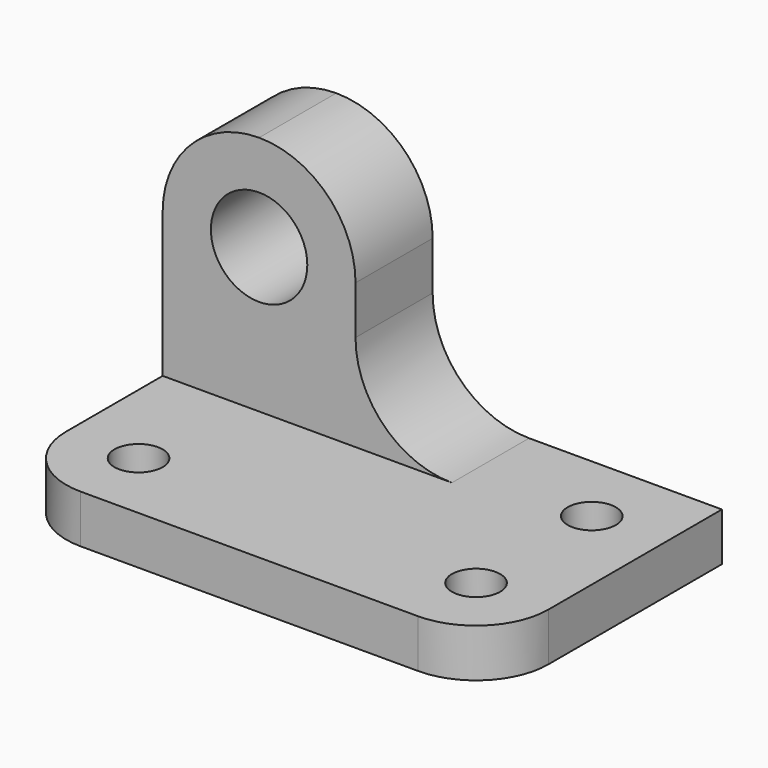
from build123d import *

# Parameters (mm, degrees)
F1_DEPTH  = 38.1
F2_W      = 38.1
F2_H      = 31.75
F3_DEPTH  = 25.4
F4_R      = 3.175
F5_DEPTH  = 25.4
F6_R      = 3.175
F7_DEPTH  = 25.4
F8_R      = 6.35
F9_DEPTH  = 25.4
F11_DEPTH = 25.4


with BuildPart() as f1:
    # F0 (on Front) → F1 (new body)
    with BuildSketch(Plane.XZ):
        Polygon((-35.522558, 52.933332), (-73.622558, 52.933332), (-73.622558, 14.833332), (-10.122558, 14.833332), (-10.122558, 21.183332), (-35.522558, 21.183332), align=None)
    extrude(amount=F1_DEPTH)

    # F2 (on face) → F3 (cut)
    with BuildSketch(Plane.XZ.offset(38.1)):
        with Locations((-54.572558, 37.058332)):
            Rectangle(F2_W, F2_H)
    extrude(amount=-F3_DEPTH, mode=Mode.SUBTRACT)

    # F4 (on face) → F5 (cut)
    with BuildSketch(Plane.XY.offset(21.183332)):
        with Locations((-19.647558, -28.575)):
            Circle(F4_R)
        with Locations((-64.097558, -28.575)):
            Circle(F4_R)
        with BuildLine():
            Line((-73.622558, -38.1), (-64.097558, -38.1))
            ThreePointArc((-64.097558, -38.1), (-70.83275, -35.310192), (-73.622558, -28.575))
            Line((-73.622558, -28.575), (-73.622558, -38.1))
        make_face()
        with BuildLine():
            ThreePointArc((-10.122558, -28.575), (-12.912366, -35.310192), (-19.647558, -38.1))
            Line((-19.647558, -38.1), (-10.122558, -38.1))
            Line((-10.122558, -38.1), (-10.122558, -28.575))
        make_face()
    extrude(amount=-F5_DEPTH, mode=Mode.SUBTRACT)

    # F6 (on face) → F7 (cut)
    with BuildSketch(Plane.XY.offset(21.183332)):
        with Locations((-19.647558, -9.525)):
            Circle(F6_R)
    extrude(amount=-F7_DEPTH, mode=Mode.SUBTRACT)

    # F8 (on face) → F9 (cut)
    with BuildSketch(Plane.XZ.offset(12.7)):
        with Locations((-60.922558, 40.233332)):
            Circle(F8_R)
    extrude(amount=-F9_DEPTH, mode=Mode.SUBTRACT)

    # F10 (on face) → F11 (cut)
    with BuildSketch(Plane.XZ.offset(12.7)):
        with BuildLine():
            ThreePointArc((-60.922558, 52.933332), (-51.942302, 49.213588), (-48.222558, 40.233332))
            Line((-48.222558, 40.233332), (-48.222558, 33.883332))
            ThreePointArc((-48.222558, 33.883332), (-44.502814, 24.903076), (-35.522558, 21.183332))
            Line((-35.522558, 21.183332), (-35.522558, 52.933332))
            Line((-35.522558, 52.933332), (-60.922558, 52.933332))
        make_face()
        with BuildLine():
            ThreePointArc((-73.622558, 40.233332), (-69.902814, 49.213588), (-60.922558, 52.933332))
            Line((-60.922558, 52.933332), (-73.622558, 52.933332))
            Line((-73.622558, 52.933332), (-73.622558, 40.233332))
        make_face()
    extrude(amount=-F11_DEPTH, mode=Mode.SUBTRACT)


solid = f1.part
